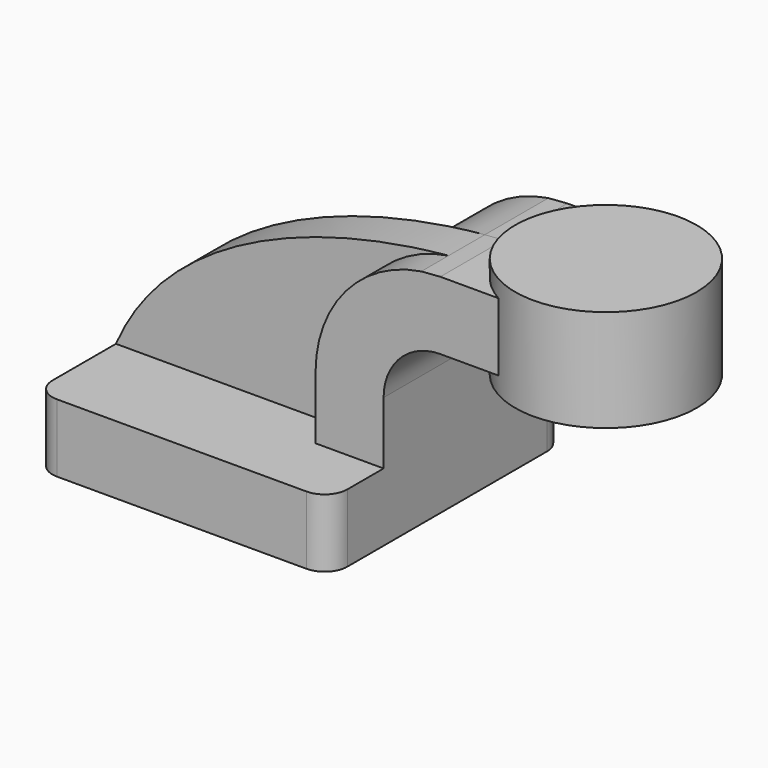
from build123d import *

# Parameters (mm, degrees)
F1_DEPTH = 41.275
F0_W     = 25.4
F0_H     = 19.05
F2_DEPTH = 22.225
F4_DEPTH = 12.7
F5_R     = 6.35


with BuildPart() as f1:
    # F0 (on Front) → F1 (new body, symmetric)
    with BuildSketch(Plane.XZ):
        Polygon((-41.275, 9.525), (-41.275, -9.525), (41.275, -9.525), (41.275, 9.525), (22.225, 9.525), align=None)
    extrude(amount=F1_DEPTH, both=True)

    # F0 (on Front) → F2 (join, symmetric)
    with BuildSketch(Plane.XZ):
        with BuildLine():
            Line((22.225, 9.525), (41.275, 9.525))
            Line((41.275, 9.525), (41.275, 27.0002))
            ThreePointArc((41.275, 27.0002), (45.9246798487, 38.2255201513), (57.15, 42.8752))
            Line((57.15, 42.8752), (60.325, 42.8752))
            Line((60.325, 42.8752), (60.325, 61.9252))
            Line((60.325, 61.9252), (57.15, 61.9252))
            add(Edge.make_bspline(
                [(51.8284612448, 61.5173964429), (53.6256679067, 61.6821411581), (55.4011666766, 61.8176662229), (57.15, 61.9252)],
                knots=[106.0610091798, 106.0610091798, 106.0610091798, 106.0610091798, 111.5045361635, 111.5045361635, 111.5045361635, 111.5045361635], degree=3))
            ThreePointArc((51.8284612448, 61.5173964429), (30.6395269184, 49.7367441963), (22.225, 27.0002))
            Line((22.225, 27.0002), (22.225, 9.525))
        make_face()
        with Locations((73.025, 52.4002)):
            Rectangle(F0_W, F0_H)
    extrude(amount=F2_DEPTH, both=True)

    # F0 (on Front) → F3 (revolve)
    with BuildSketch(Plane.XZ):
        Polygon((85.725, 66.675), (85.725, 61.9252), (85.725, 42.8752), (85.725, 38.1), (111.125, 38.1), (111.125, 66.675), align=None)
    revolve(axis=Axis((85.725, 0, 54.7751), (0, 0, 1)))

    # F0 (on Front) → F4 (join)
    with BuildSketch(Plane.XZ):
        with BuildLine():
            add(Edge.make_bspline(
                [(-41.275, 9.525), (-26.4454266559, 44.0052587765), (16.8119080386, 58.3075307065), (51.8284612448, 61.5173964429)],
                knots=[0, 0, 0, 0, 106.0610091798, 106.0610091798, 106.0610091798, 106.0610091798], degree=3))
            Line((-41.275, 9.525), (22.225, 9.525))
            Line((22.225, 9.525), (22.225, 27.0002))
            ThreePointArc((22.225, 27.0002), (30.6395269184, 49.7367441963), (51.8284612448, 61.5173964429))
        make_face()
    extrude(amount=F4_DEPTH)

    # F5
    f5_edges = [f1.edges().sort_by_distance(p)[0] for p in [
        (41.275, -41.275, 0),
        (-41.275, -41.275, 0),
        (41.275, 41.275, 0),
        (-41.275, 41.275, 0),
    ]]
    fillet(f5_edges, radius=F5_R)


solid = f1.part
